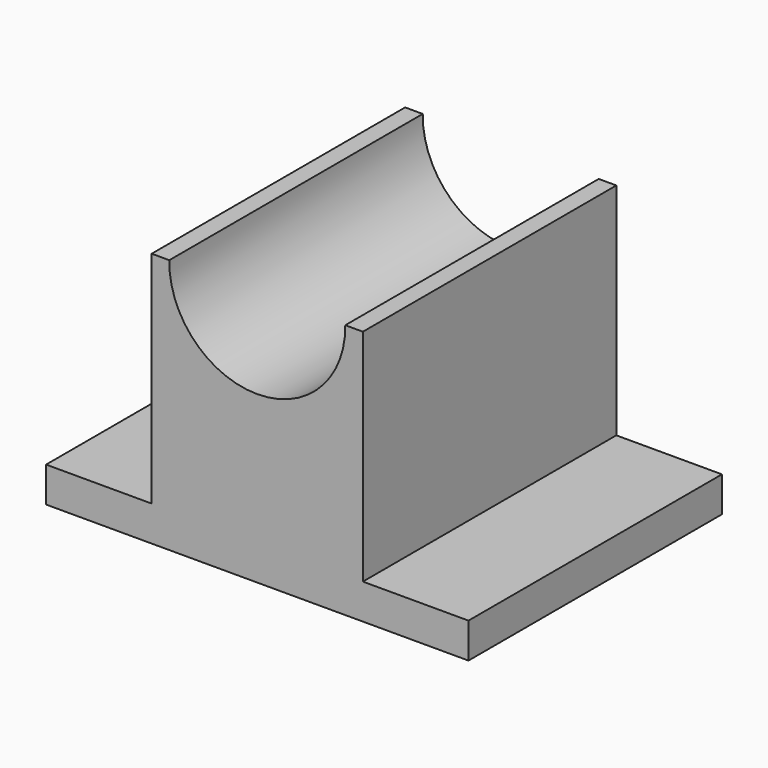
from build123d import *

# Parameters (mm, degrees)
F0_W     = 152.4
F0_H     = 92.075
F1_DEPTH = 114.3
F2_W     = 38.1
F2_H     = 79.375
F3_DEPTH = 114.301
F5_DEPTH = 114.301


with BuildPart() as f1:
    # F0 (on Front) → F1 (new body)
    with BuildSketch(Plane.XZ):
        with Locations((76.2, 46.0375)):
            Rectangle(F0_W, F0_H)
    extrude(amount=F1_DEPTH)

    # F2 (on face) → F3 (cut, through all)
    with BuildSketch(Plane.XZ.offset(114.3)):
        with Locations((19.05, 52.3875)):
            Rectangle(F2_W, F2_H)
        with Locations((133.35, 52.3875)):
            Rectangle(F2_W, F2_H)
    extrude(amount=-F3_DEPTH, mode=Mode.SUBTRACT)

    # F4 (on face) → F5 (cut, through all)
    with BuildSketch(Plane.XZ.offset(114.3)):
        with BuildLine():
            Line((107.95, 92.075), (44.45, 92.075))
            ThreePointArc((44.45, 92.075), (76.2, 59.849693), (107.95, 92.075))
        make_face()
    extrude(amount=-F5_DEPTH, mode=Mode.SUBTRACT)


solid = f1.part
